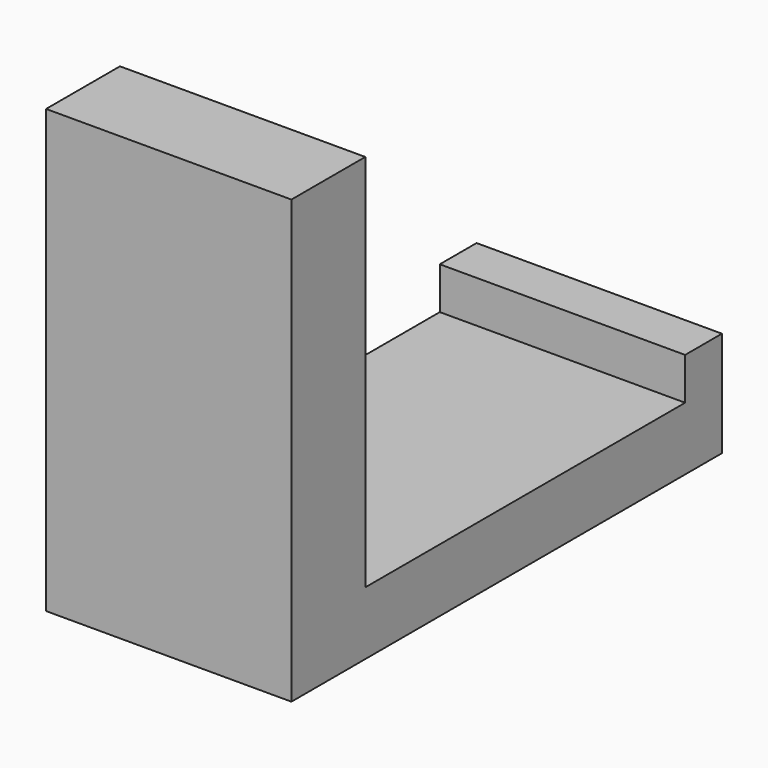
from build123d import *

# Parameters (mm, degrees)
F0_W     = 74.0097276866
F0_H     = 111.5253269672
F1_DEPTH = 19.05
F2_W     = 74.0097276866
F2_H     = 27.8478488326
F3_DEPTH = 114.3
F4_DEPTH = 50.8
F5_W     = 74.0097276866
F5_H     = 13.872501123
F6_DEPTH = 12.7


with BuildPart() as f1:
    # F0 (on Top) → F1 (new body)
    with BuildSketch(Plane.XY):
        with Locations((-5.4957885295, -19.080080092)):
            Rectangle(F0_W, F0_H)
    extrude(amount=F1_DEPTH)

    # F2 (on face) → F3 (join)
    with BuildSketch(Plane.XY.offset(19.05)):
        with Locations((-5.4957885295, -60.9188191593)):
            Rectangle(F2_W, F2_H)
    extrude(amount=F3_DEPTH)

    # F4 (add): a face of the model
    f4_faces = [f1.faces().sort_by_distance(p)[0] for p in [
        (-5.4957885295, 36.6825833917, 9.525),
    ]]
    extrude(f4_faces, amount=F4_DEPTH)

    # F5 (on face) → F6 (join)
    with BuildSketch(Plane.XY.offset(19.05)):
        with Locations((-5.4957885295, 80.5463328302)):
            Rectangle(F5_W, F5_H)
    extrude(amount=F6_DEPTH)


solid = f1.part
